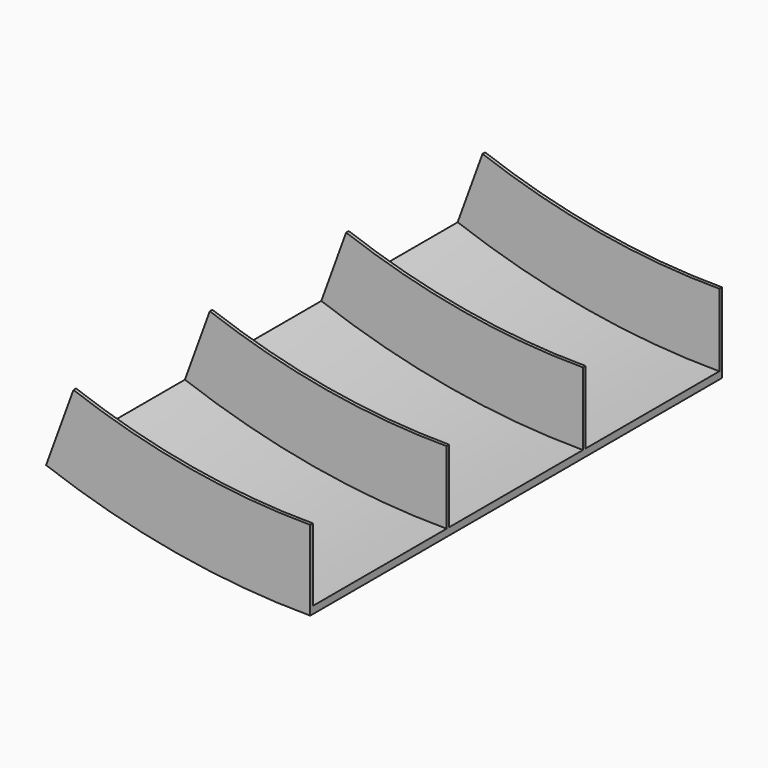
from build123d import *


with BuildPart() as f4:
    # F4: sweep along a path in F3
    with BuildLine(Plane.XZ) as f4_path:
        ThreePointArc((-180, 31.7388565275), (-91.3883950697, 7.9954485464), (0, 0))
    # F2 (on Right) → F4 (sweep)
    with BuildSketch(Plane.YZ):
        Polygon((57.5, 0), (-57.5, 0), (-57.5, 50), (-59.75, 50), (-59.75, 0), (-174.75, 0), (-174.75, 50), (-177, 50), (-177, -5), (177, -5), (177, 50), (174.75, 50), (174.75, 0), (59.75, 0), (59.75, 50), (57.5, 50), align=None)
    sweep(path=f4_path.line)


solid = f4.part
